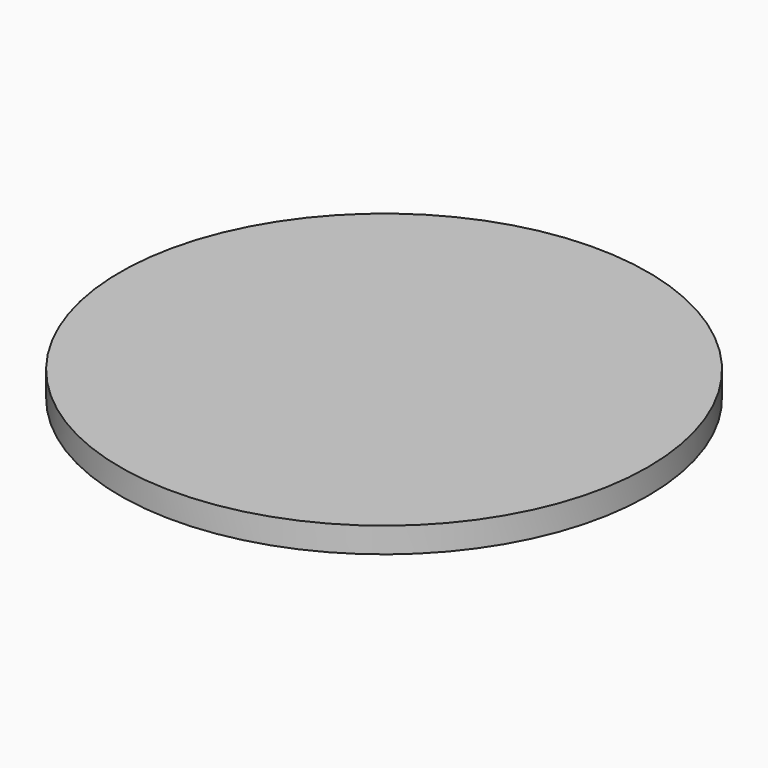
from build123d import *

# Parameters (mm, degrees)
F3_DEPTH = 6.7


with BuildPart() as f1:
    # F0 (on Front) → F1 (revolve)
    with BuildSketch(Plane.XZ):
        Polygon((0, 8.9), (0, 0), (5, 0), (5, 6.7), (23, 6.7), (23, 8.9), align=None)
    revolve(axis=Axis((0, 0, 4.45), (0, 0, -1)))

    # F2 (on face) → F3 (cut, through all)
    with BuildSketch(Plane(origin=(0, 0, 6.7), x_dir=(1, 0, 0), z_dir=(0, 0, -1))):
        Polygon((-4.4214, 1.917347), (0.457217, -4.797494), (4.4214, -1.917347), (-0.457217, 4.797494), align=None)
    extrude(amount=F3_DEPTH, mode=Mode.SUBTRACT)


solid = f1.part
